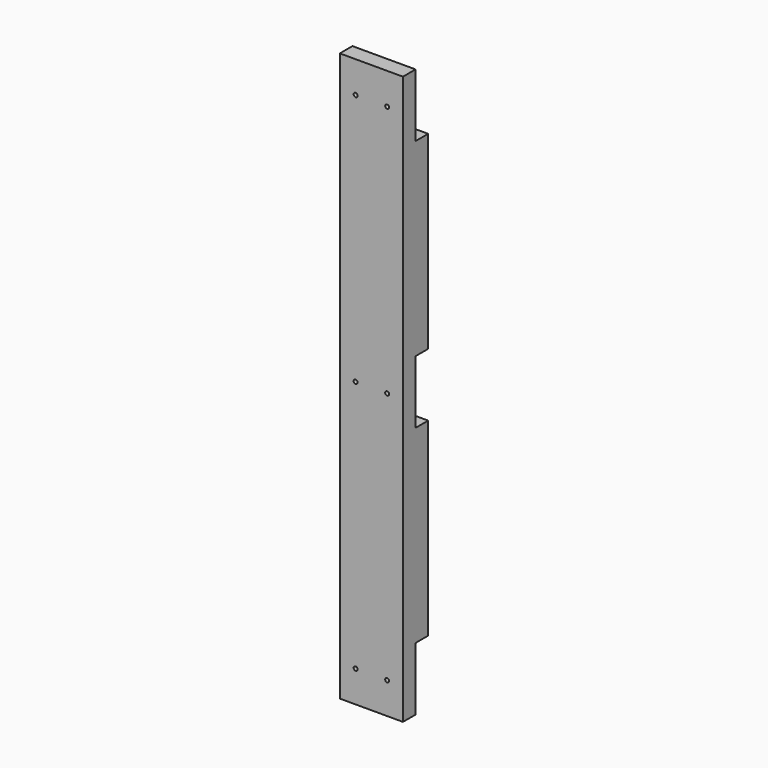
from build123d import *

# Parameters (mm, degrees)
F0_W     = 101.6
F0_H     = 50.8
F1_DEPTH = 914.4
F2_W     = 25.4
F2_H     = 101.6
F3_DEPTH = 101.601
F4_R     = 3.175
F5_DEPTH = 50.801


with BuildPart() as f1:
    # F0 (on Top) → F1 (new body)
    with BuildSketch(Plane.XY):
        Rectangle(F0_W, F0_H)
    extrude(amount=F1_DEPTH)

    # F2 (on face) → F3 (cut, through all)
    with BuildSketch(Plane.YZ.offset(50.8)):
        with Locations((12.7, 457.2)):
            Rectangle(F2_W, F2_H)
        with Locations((12.7, 50.8)):
            Rectangle(F2_W, F2_H)
        with Locations((12.7, 863.6)):
            Rectangle(F2_W, F2_H)
    extrude(amount=-F3_DEPTH, mode=Mode.SUBTRACT)

    # F4 (on face) → F5 (cut, through all)
    with BuildSketch(Plane.XZ.offset(25.4)):
        with Locations((-25.4, 863.6)):
            Circle(F4_R)
        with Locations((-25.4, 457.2)):
            Circle(F4_R)
        with Locations((-25.4, 50.8)):
            Circle(F4_R)
        with Locations((25.4, 863.6)):
            Circle(F4_R)
        with Locations((25.4, 457.2)):
            Circle(F4_R)
        with Locations((25.4, 50.8)):
            Circle(F4_R)
    extrude(amount=-F5_DEPTH, mode=Mode.SUBTRACT)


solid = f1.part
